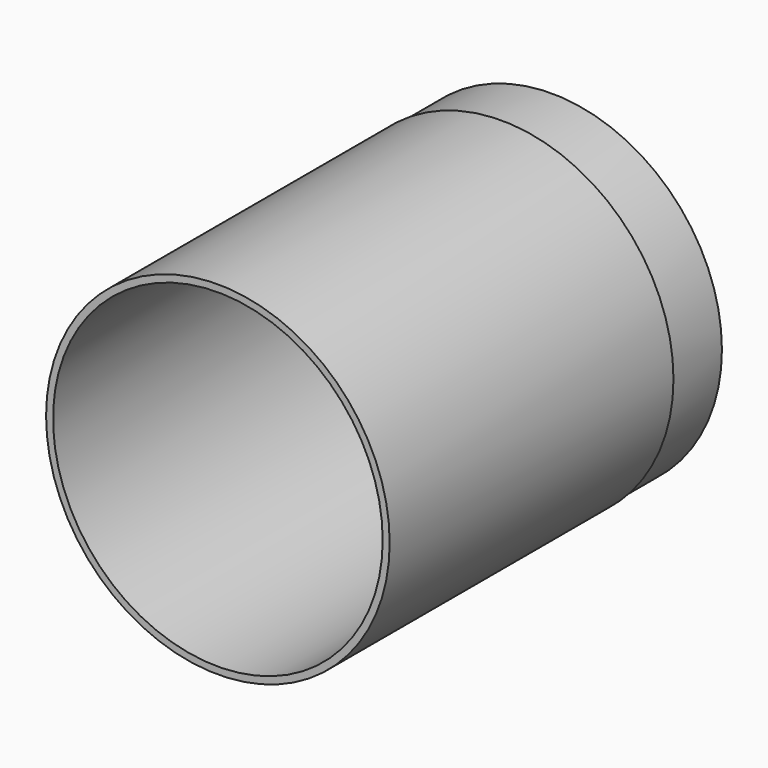
from build123d import *

# Parameters (mm, degrees)
F0_R     = 74.1
F0_R_2   = 71.09
F1_DEPTH = 260
F2_R     = 78.65
F2_R_2   = 73.4
F3_DEPTH = 27
F4_R     = 74.1
F4_R_2   = 73.4
F5_DEPTH = 27
F6_SIZE  = 2
F7_R     = 95.050876
F7_R_2   = 7.411158
F8_DEPTH = 80


with BuildPart() as f1:
    # F0 (on Front) → F1 (new body)
    with BuildSketch(Plane.XZ):
        Circle(F0_R)
        Circle(F0_R_2, mode=Mode.SUBTRACT)
    extrude(amount=F1_DEPTH)

    # F2 (on Front) → F3 (cut)
    with BuildSketch(Plane.XZ):
        Circle(F2_R)
        Circle(F2_R_2, mode=Mode.SUBTRACT)
    extrude(amount=F3_DEPTH, mode=Mode.SUBTRACT)

    # F4 (on face) → F5 (cut)
    with BuildSketch(Plane.XZ.offset(260)):
        Circle(F4_R)
        Circle(F4_R_2, mode=Mode.SUBTRACT)
    extrude(amount=-F5_DEPTH, mode=Mode.SUBTRACT)

    # F6
    f6_edges = [f1.edges().sort_by_distance(p)[0] for p in [
        (-71.09, -260, 0),
        (-71.09, 0, 0),
    ]]
    chamfer(f6_edges, length=F6_SIZE)

    # F7 (on face) → F8 (cut)
    with BuildSketch(Plane.XZ.offset(260)):
        Circle(F7_R)
        Circle(F7_R_2, mode=Mode.SUBTRACT)
    extrude(amount=-F8_DEPTH, mode=Mode.SUBTRACT)


solid = f1.part
